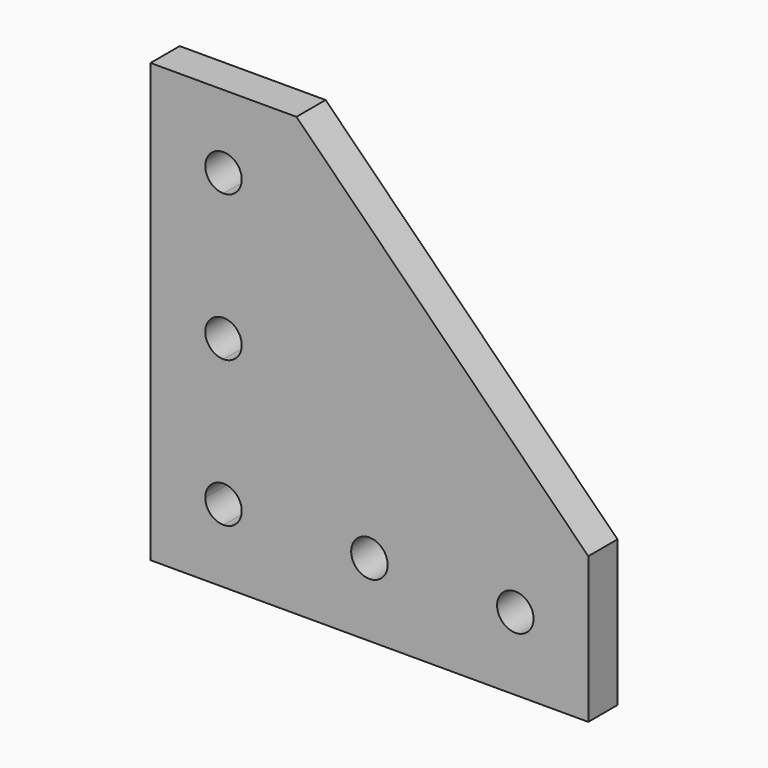
from build123d import *

# Parameters (mm, degrees)
F1_DEPTH = 6.35


with BuildPart() as f1:
    # F0 (on Front) → F1 (new body)
    with BuildSketch(Plane.XZ):
        with BuildLine():
            Line((38.1, -12.7), (-12.7, 38.1))
            Line((-12.7, 38.1), (-25.4, 38.1))
            Line((-25.4, 38.1), (-25.4, 28.575))
            ThreePointArc((-25.4, 28.575), (-23.154936, 27.645064), (-22.225, 25.4))
            ThreePointArc((-22.225, 25.4), (-23.154936, 23.154936), (-25.4, 22.225))
            Line((-25.4, 22.225), (-25.4, 3.175))
            ThreePointArc((-25.4, 3.175), (-23.154936, 2.245064), (-22.225, 0))
            ThreePointArc((-22.225, 0), (-23.154936, -2.245064), (-25.4, -3.175))
            Line((-25.4, -3.175), (-25.4, -22.225))
            ThreePointArc((-25.4, -22.225), (-23.154936, -23.154936), (-22.225, -25.4))
            Line((-22.225, -25.4), (-3.175, -25.4))
            ThreePointArc((-3.175, -25.4), (0, -22.225), (3.175, -25.4))
            Line((3.175, -25.4), (22.225, -25.4))
            ThreePointArc((22.225, -25.4), (25.4, -22.225), (28.575, -25.4))
            Line((28.575, -25.4), (38.1, -25.4))
            Line((38.1, -25.4), (38.1, -12.7))
        make_face()
        with BuildLine():
            Line((-25.4, 28.575), (-25.4, 38.1))
            Line((-25.4, 38.1), (-38.1, 38.1))
            Line((-38.1, 38.1), (-38.1, -25.4))
            Line((-38.1, -25.4), (-28.575, -25.4))
            ThreePointArc((-28.575, -25.4), (-27.645064, -23.154936), (-25.4, -22.225))
            Line((-25.4, -22.225), (-25.4, -3.175))
            ThreePointArc((-25.4, -3.175), (-28.575, 0), (-25.4, 3.175))
            Line((-25.4, 3.175), (-25.4, 22.225))
            ThreePointArc((-25.4, 22.225), (-28.575, 25.4), (-25.4, 28.575))
        make_face()
        with BuildLine():
            Line((-28.575, -25.4), (-38.1, -25.4))
            Line((-38.1, -25.4), (-38.1, -38.1))
            Line((-38.1, -38.1), (-25.4, -38.1))
            Line((-25.4, -38.1), (-25.4, -28.575))
            ThreePointArc((-25.4, -28.575), (-27.645064, -27.645064), (-28.575, -25.4))
        make_face()
        with BuildLine():
            Line((38.1, -38.1), (38.1, -25.4))
            Line((38.1, -25.4), (28.575, -25.4))
            ThreePointArc((28.575, -25.4), (25.4, -28.575), (22.225, -25.4))
            Line((22.225, -25.4), (3.175, -25.4))
            ThreePointArc((3.175, -25.4), (0, -28.575), (-3.175, -25.4))
            Line((-3.175, -25.4), (-22.225, -25.4))
            ThreePointArc((-22.225, -25.4), (-23.154936, -27.645064), (-25.4, -28.575))
            Line((-25.4, -28.575), (-25.4, -38.1))
            Line((-25.4, -38.1), (38.1, -38.1))
        make_face()
    extrude(amount=F1_DEPTH)


solid = f1.part
